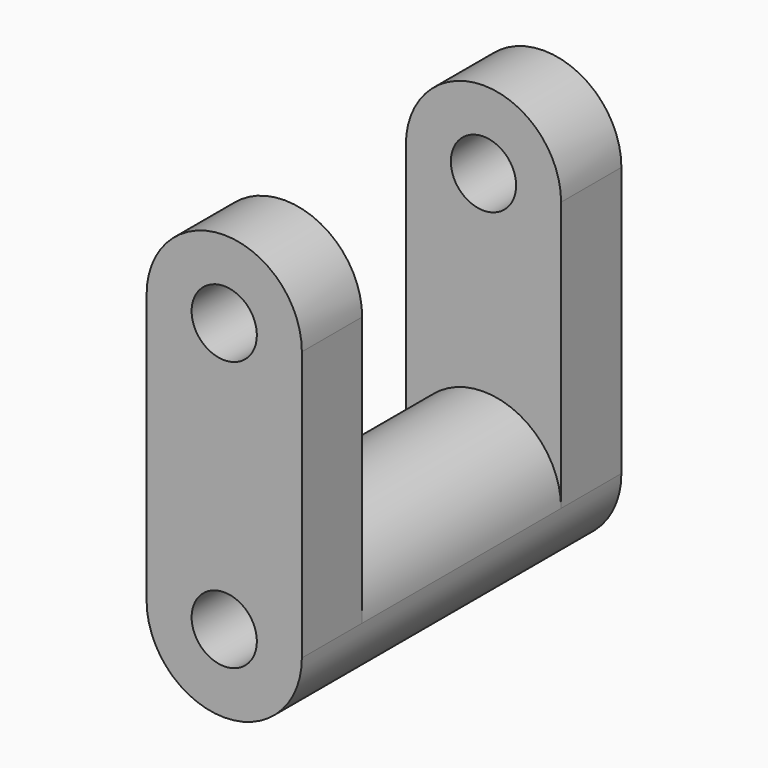
from build123d import *

# Parameters (mm, degrees)
F0_R     = 10.99621
F1_DEPTH = 25.4
F2_DEPTH = 41.91


with BuildPart() as f1:
    # F0 (on Front) → F1 (new body)
    with BuildSketch(Plane.XZ):
        with BuildLine():
            ThreePointArc((26.165782, 45.422908), (0, 71.588689), (-26.165782, 45.422908))
            Line((-26.165782, 45.422908), (-26.165782, -45.422908))
            ThreePointArc((-26.165782, -45.422908), (0, -19.257126), (26.165782, -45.422908))
            Line((26.165782, -45.422908), (26.165782, 45.422908))
        make_face()
        with Locations((0, 45.422908)):
            Circle(F0_R, mode=Mode.SUBTRACT)
        with BuildLine():
            ThreePointArc((26.165782, -45.422908), (0, -19.257126), (-26.165782, -45.422908))
            ThreePointArc((-26.165782, -45.422908), (0, -71.588689), (26.165782, -45.422908))
        make_face()
        with Locations((0, -45.422908)):
            Circle(F0_R, mode=Mode.SUBTRACT)
    extrude(amount=F1_DEPTH)

    # F0 (on Front) → F2 (join)
    with BuildSketch(Plane.XZ):
        with BuildLine():
            ThreePointArc((26.165782, -45.422908), (0, -19.257126), (-26.165782, -45.422908))
            ThreePointArc((-26.165782, -45.422908), (0, -71.588689), (26.165782, -45.422908))
        make_face()
        with Locations((0, -45.422908)):
            Circle(F0_R, mode=Mode.SUBTRACT)
    extrude(amount=-F2_DEPTH)

    # F3: F1 across face


with BuildPart() as f1_1:
    add(f1.part)
    add(f1.part.mirror(Plane(origin=(0, 41.91, -45.422908), x_dir=(1, 0, 0), z_dir=(0, 1, 0))))


solid = f1_1.part
